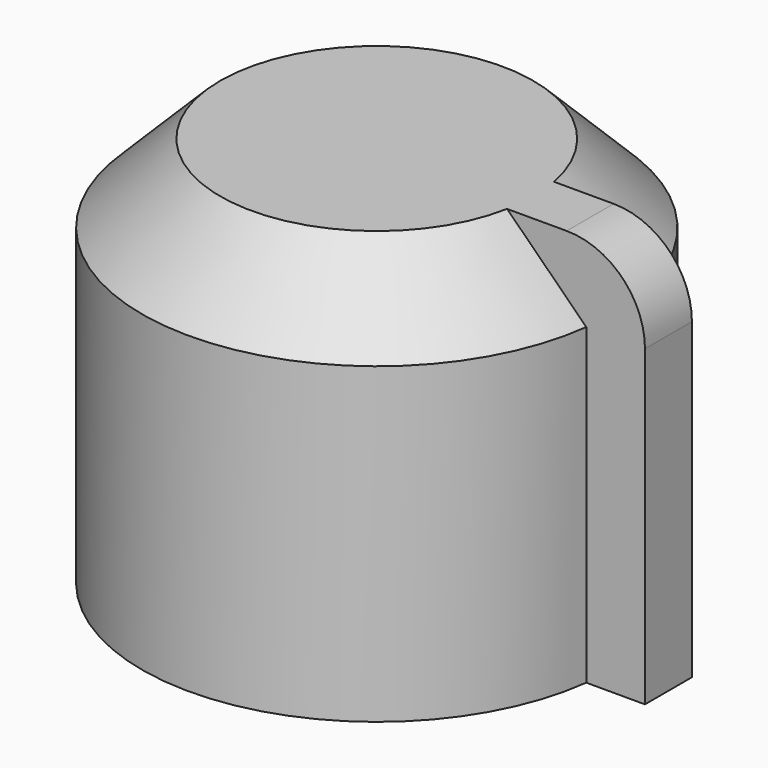
from build123d import *

# Parameters (mm, degrees)
SKETCH_R     = 6
PAD_DEPTH    = 10
SKETCH001_R  = 3.15
POCKET_DEPTH = 8
PAD001_DEPTH = 1
SKETCH003_W  = 1.5
SKETCH003_H  = 1.5
PAD002_DEPTH = 10
CHAMFER_SIZE = 2
FILLET_R     = 2


with BuildPart() as part:
    # Sketch → Pad (new body)
    with BuildSketch(Plane.XY):
        Circle(SKETCH_R)
    extrude(amount=PAD_DEPTH)

    # Sketch001 (on Face2 of Pad) → Pocket (cut)
    with BuildSketch(Plane(origin=(0, 0, 0), x_dir=(1, 0, 0), z_dir=(0, 0, -1))):
        Circle(SKETCH001_R)
    extrude(amount=-POCKET_DEPTH, mode=Mode.SUBTRACT)

    # Sketch002 (on Face5 of Pocket) → Pad001 (join)
    with BuildSketch(Plane(origin=(0, 0, 8), x_dir=(1, 0, 0), z_dir=(0, 0, -1))):
        with BuildLine():
            Line((-3.071238, 0.7), (3.071238, 0.7))
            ThreePointArc((3.059412, -0.75), (3.149895, -0.02569), (3.071238, 0.7))
            Line((3.059412, -0.75), (-3.059412, -0.75))
            ThreePointArc((-3.071238, 0.7), (-3.149895, -0.02569), (-3.059412, -0.75))
        make_face()
    extrude(amount=PAD001_DEPTH)

    # Sketch003 (on Face2 of Pad001) → Pad002 (join)
    with BuildSketch(Plane(origin=(0, 0, 0), x_dir=(1, 0, 0), z_dir=(0, 0, -1))):
        with Locations((6.70294, 0)):
            Rectangle(SKETCH003_W, SKETCH003_H)
    extrude(amount=-PAD002_DEPTH)

    # Chamfer
    chamfer_edges = [part.edges().sort_by_distance(p)[0] for p in [
        (-6, 0, 10),
    ]]
    chamfer(chamfer_edges, length=CHAMFER_SIZE)

    # Fillet
    fillet_edges = [part.edges().sort_by_distance(p)[0] for p in [
        (7.45294, 0, 10),
    ]]
    fillet(fillet_edges, radius=FILLET_R)


solid = part.part
